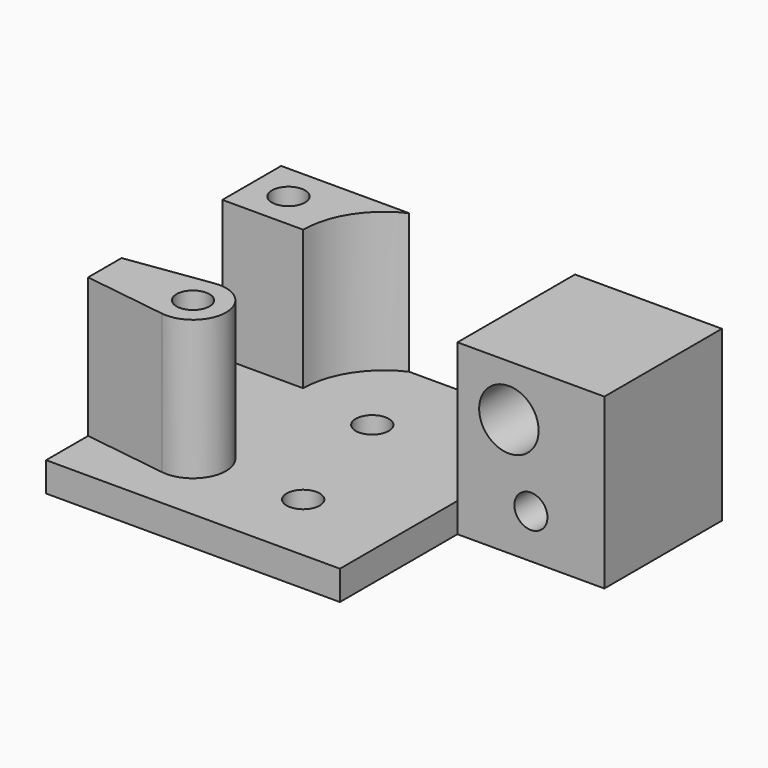
from build123d import *

# Parameters (mm, degrees)
SKETCH_R        = 2.25
PAD_DEPTH       = 23
POCKET_DEPTH    = 19
SKETCH002_R     = 4.05
SKETCH002_R_2   = 2.25
POCKET001_DEPTH = 20.001
SKETCH003_R     = 2.25
POCKET002_DEPTH = 10
SKETCH004_R     = 3.75
POCKET003_DEPTH = 10
SKETCH005_R     = 3.75
POCKET004_DEPTH = 10


with BuildPart() as pocket004:
    # Sketch → Pad (new body)
    with BuildSketch(Plane.XY):
        Polygon((0, -20), (40, -20), (40, 20), (-20, 20), (-20, 0), (0, 0), align=None)
        with Locations((18, 8)):
            Circle(SKETCH_R, mode=Mode.SUBTRACT)
        with Locations((13, -10)):
            Circle(SKETCH_R, mode=Mode.SUBTRACT)
        with Locations((28, -10)):
            Circle(SKETCH_R, mode=Mode.SUBTRACT)
    extrude(amount=PAD_DEPTH)

    # Sketch001 → Pocket (cut)
    with BuildSketch(Plane.XY.offset(23)):
        with BuildLine():
            Line((46, 10), (29, 10))
            ThreePointArc((29, 10), (25.778159, 17.77819), (17.999956, 21))
            Line((17.999956, 21), (0, 21))
            Line((0, 21), (0, -23))
            Line((0, -23), (46, -23))
            Line((46, -23), (46, -12))
            Line((28.629923, -14.455693), (46, -12))
            ThreePointArc((28.629923, -5.544307), (23.5, -10), (28.629923, -14.455693))
            Line((28.629923, -5.544307), (46, -8))
            Line((46, -8), (46, 10))
        make_face()
    extrude(amount=-POCKET_DEPTH, mode=Mode.SUBTRACT)

    # Sketch002 → Pocket001 (cut, through all)
    with BuildSketch(Plane.XZ):
        with Locations((-7, 16)):
            Circle(SKETCH002_R)
        with Locations((-10, 6)):
            Circle(SKETCH002_R_2)
    extrude(amount=-POCKET001_DEPTH, mode=Mode.SUBTRACT)

    # Sketch003 → Pocket002 (cut)
    with BuildSketch(Plane.XY.offset(23)):
        with Locations((35, 15)):
            Circle(SKETCH003_R)
    extrude(amount=-POCKET002_DEPTH, mode=Mode.SUBTRACT)

    # Sketch004 → Pocket003 (cut)
    with BuildSketch(Plane(origin=(0, 20, 0), x_dir=(-1, 0, 0), z_dir=(0, 1, 0))):
        with Locations((10, 6)):
            Circle(SKETCH004_R)
    extrude(amount=-POCKET003_DEPTH, mode=Mode.SUBTRACT)

    # Sketch005 → Pocket004 (cut)
    with BuildSketch(Plane(origin=(0, 0, 0), x_dir=(1, 0, 0), z_dir=(0, 0, -1))):
        with Locations((28, 10)):
            Circle(SKETCH005_R)
    extrude(amount=-POCKET004_DEPTH, mode=Mode.SUBTRACT)


with BuildPart() as part_mirroring:
    # Part__Mirroring: instance of Pocket004
    add(pocket004.part.mirror(Plane(origin=(0, 0, 0), x_dir=(0, -1, 0), z_dir=(1, 0, 0))))


solid = part_mirroring.part
